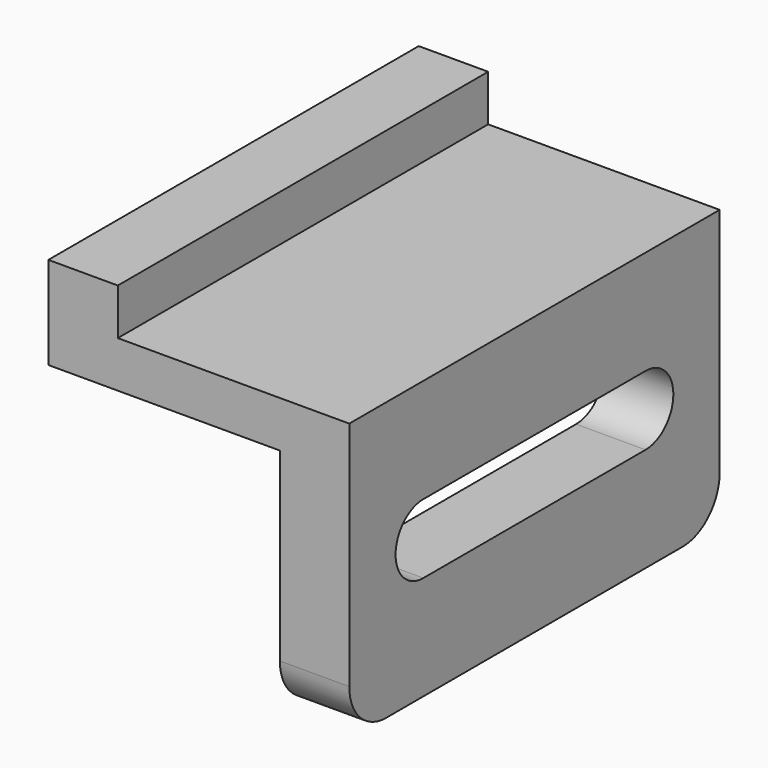
from build123d import *

# Parameters (mm, degrees)
F1_DEPTH = 100
F3_DEPTH = 25
F4_R     = 10


with BuildPart() as f1:
    # F0 (on Front) → F1 (new body)
    with BuildSketch(Plane.XZ):
        Polygon((15, 0), (0, 0), (0, -20), (50, -20), (50, -70), (65, -70), (65, -10), (15, -10), align=None)
    extrude(amount=F1_DEPTH)

    # F2 (on face) → F3 (cut)
    with BuildSketch(Plane.YZ.offset(65)):
        with BuildLine():
            Line((-20, -32.5), (-80, -32.5))
            ThreePointArc((-80, -32.5), (-87.5, -40), (-80, -47.5))
            Line((-80, -47.5), (-20, -47.5))
            ThreePointArc((-20, -47.5), (-12.5, -40), (-20, -32.5))
        make_face()
    extrude(amount=-F3_DEPTH, mode=Mode.SUBTRACT)

    # F4
    f4_edges = [f1.edges().sort_by_distance(p)[0] for p in [
        (57.5, -100, -70),
        (57.5, 0, -70),
    ]]
    fillet(f4_edges, radius=F4_R)


solid = f1.part
